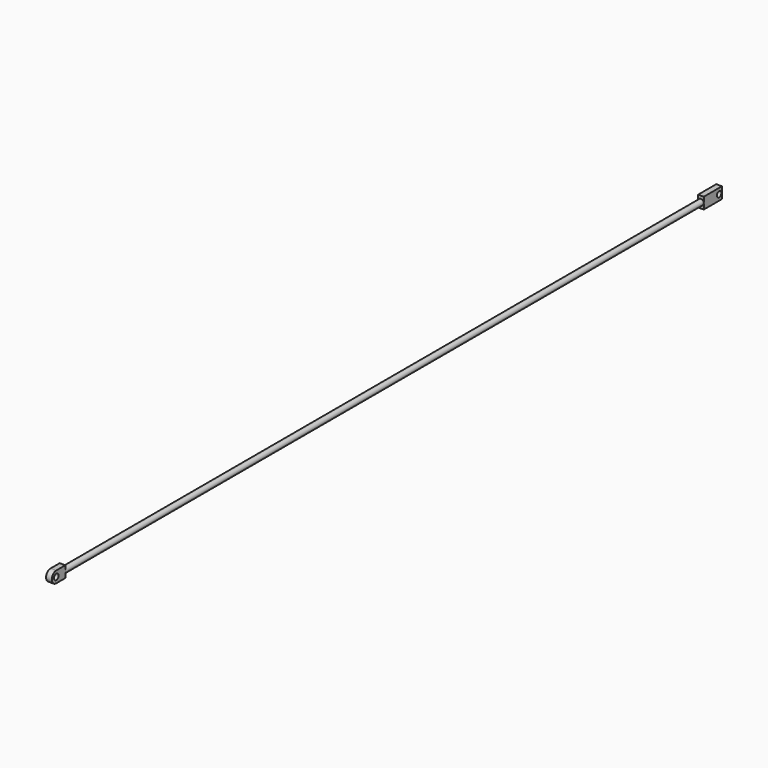
from build123d import *

# Parameters (mm, degrees)
F1_R     = 3.175
F2_DEPTH = 3.175
F3_DEPTH = 3.175
F0_R     = 3.175
F4_DEPTH = 914.4
F5_W     = 25.4
F5_H     = 12.7
F5_R     = 3.175
F6_DEPTH = 3.175


with BuildPart() as f2:
    # F1 (on Right) → F2 (new body, symmetric)
    with BuildSketch(Plane.YZ):
        with BuildLine():
            ThreePointArc((-6.35, 6.35), (-12.7, 0), (-6.35, -6.35))
            ThreePointArc((-6.35, -6.35), (-1.859872, -4.490128), (0, 0))
            ThreePointArc((0, 0), (-1.859872, 4.490128), (-6.35, 6.35))
        make_face()
        with Locations((-6.35, 0)):
            Circle(F1_R, mode=Mode.SUBTRACT)
    extrude(amount=F2_DEPTH, both=True)

    # F1 (on Right) → F3 (join, symmetric)
    with BuildSketch(Plane.YZ):
        with BuildLine():
            Line((-6.35, -6.35), (6.35, -6.35))
            Line((6.35, -6.35), (6.35, 6.35))
            Line((6.35, 6.35), (-6.35, 6.35))
            ThreePointArc((-6.35, 6.35), (-1.859872, 4.490128), (0, 0))
            ThreePointArc((0, 0), (-1.859872, -4.490128), (-6.35, -6.35))
        make_face()
    extrude(amount=F3_DEPTH, both=True)

    # F0 (on Front) → F4 (join)
    with BuildSketch(Plane.XZ):
        Circle(F0_R)
    extrude(amount=-F4_DEPTH)

    # F5 (on Right) → F6 (join, symmetric)
    with BuildSketch(Plane.YZ):
        with Locations((914.458871, 0)):
            Rectangle(F5_W, F5_H)
        with Locations((923.234463, 0)):
            Circle(F5_R, mode=Mode.SUBTRACT)
    extrude(amount=F6_DEPTH, both=True)


solid = f2.part
